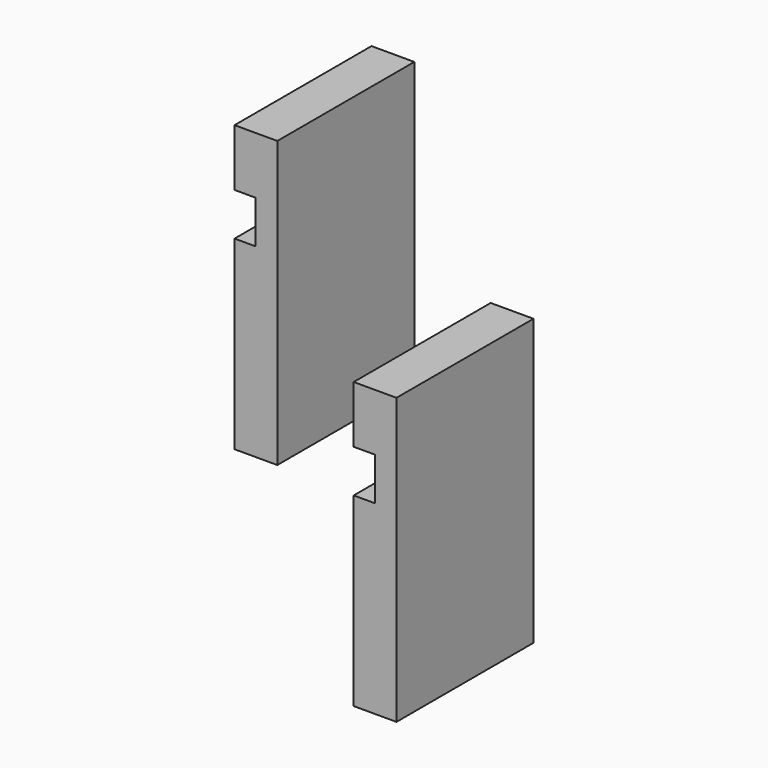
from build123d import *

# Parameters (mm, degrees)
F0_W     = 19.05
F0_H     = 127
F1_DEPTH = 76.2
F3_W     = 9.525
F3_H     = 19.05
F4_DEPTH = 101.6


with BuildPart() as f1:
    # F0 (on Front) → F1 (new body)
    with BuildSketch(Plane.XZ):
        with Locations((-9.525, 63.5)):
            Rectangle(F0_W, F0_H)
    extrude(amount=F1_DEPTH)

    # F3 (on face) → F4 (cut)
    with BuildSketch(Plane.XZ.offset(76.2)):
        with Locations((-14.399607, 92.07713)):
            Rectangle(F3_W, F3_H)
    extrude(amount=-F4_DEPTH, mode=Mode.SUBTRACT)


with BuildPart() as f5_1:
    # F5: copy of F1
    add(f1.part.moved(Location((-92.456, 49.276, 50.546))))


solid = Compound([f1.part, f5_1.part])
